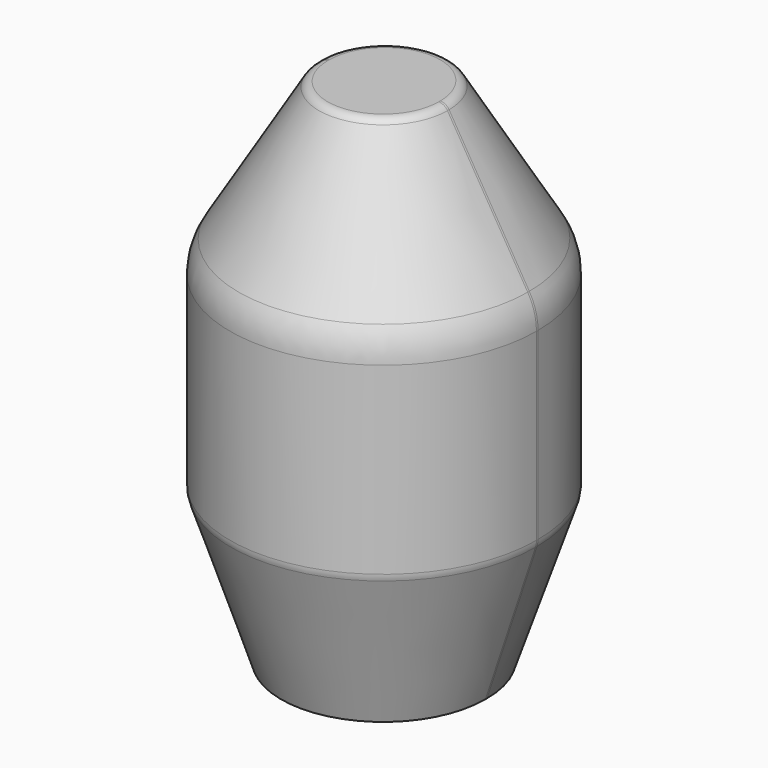
from build123d import *

# Parameters (mm, degrees)
F2_DEPTH = 0.1
F3_ANGLE = 180
F4_ANGLE = 180
F5_DEPTH = 0.1
F6_R     = 0.2427611579
F7_DEPTH = 1


with BuildPart() as f2:
    # F1 (on Front) → F2 (new body)
    with BuildSketch(Plane.XZ):
        with BuildLine():
            Line((0, 0.6), (0, 0))
            Line((0, 0), (5, 0))
            Line((5, 0), (7.4486832981, 7.3460498942))
            ThreePointArc((7.4486832981, 7.3460498942), (7.4870874576, 7.5020954172), (7.5, 7.6622776602))
            Line((7.5, 7.6622776602), (7.5, 16.6690481052))
            ThreePointArc((7.5, 16.6690481052), (7.3911447846, 17.4698488508), (7.0724787771, 18.2125353714))
            Line((7.0724787771, 18.2125353714), (3.1456512734, 24.7572478777))
            ThreePointArc((3.1456512734, 24.7572478777), (2.963254218, 24.9350999534), (2.7169048105, 25))
            Line((2.7169048105, 25), (0, 25))
            Line((0, 25), (0, 24.4))
            Line((0, 24.4), (2.6383143499, 24.4))
            ThreePointArc((2.6383143499, 24.4), (2.6777302551, 24.3896159925), (2.7069137839, 24.3611596604))
            Line((2.7069137839, 24.3611596604), (6.5751328802, 17.9141278333))
            ThreePointArc((6.5751328802, 17.9141278333), (6.8321901263, 17.3150273733), (6.92, 16.6690481052))
            Line((6.92, 16.6690481052), (6.92, 7.6622776602))
            ThreePointArc((6.92, 7.6622776602), (6.9145767322, 7.5950011181), (6.8984469852, 7.5294619984))
            Line((6.8984469852, 7.5294619984), (4.588626319, 0.6))
            Line((4.588626319, 0.6), (0, 0.6))
        make_face()
    extrude(amount=F2_DEPTH)

    # F2_face (on face) → F3 (revolve)
    with BuildSketch(Plane(origin=(5.1843610202, -0.1, 11.965116571), x_dir=(1, 0, 0), z_dir=(0, -1, 0))):
        with BuildLine():
            Line((-0.5957347012, -11.365116571), (-5.1843610202, -11.365116571))
            Line((-5.1843610202, -11.365116571), (-5.1843610202, -11.965116571))
            Line((-5.1843610202, -11.965116571), (-0.1843610202, -11.965116571))
            Line((-0.1843610202, -11.965116571), (2.2643222778, -4.6190666769))
            ThreePointArc((2.2643222778, -4.6190666769), (2.3027264374, -4.4630211539), (2.3156389798, -4.3028389109))
            Line((2.3156389798, -4.3028389109), (2.3156389798, 4.7039315341))
            ThreePointArc((2.3156389798, 4.7039315341), (2.2067837644, 5.5047322798), (1.8881177569, 6.2474188004))
            Line((1.8881177569, 6.2474188004), (-2.0387097468, 12.7921313067))
            ThreePointArc((-2.0387097468, 12.7921313067), (-2.2211068022, 12.9699833824), (-2.4674562097, 13.034883429))
            Line((-2.4674562097, 13.034883429), (-5.1843610202, 13.034883429))
            Line((-5.1843610202, 13.034883429), (-5.1843610202, 12.434883429))
            Line((-5.1843610202, 12.434883429), (-2.5460466703, 12.434883429))
            ThreePointArc((-2.5460466703, 12.434883429), (-2.5066307651, 12.4244994215), (-2.4774472363, 12.3960430894))
            Line((-2.4774472363, 12.3960430894), (1.39077186, 5.9490112623))
            ThreePointArc((1.39077186, 5.9490112623), (1.6478291061, 5.3499108023), (1.7356389798, 4.7039315341))
            Line((1.7356389798, 4.7039315341), (1.7356389798, -4.3028389109))
            ThreePointArc((1.7356389798, -4.3028389109), (1.730215712, -4.3701154529), (1.714085965, -4.4356545726))
            Line((1.714085965, -4.4356545726), (-0.5957347012, -11.365116571))
        make_face()
    revolve(axis=Axis((0, -0.1, 24.7), (0, 0, -1)), revolution_arc=F3_ANGLE)

    # F1 (on Front) → F4 (revolve)
    with BuildSketch(Plane.XZ):
        with BuildLine():
            Line((0, 0.6), (0, 0))
            Line((0, 0), (5, 0))
            Line((5, 0), (7.4486832981, 7.3460498942))
            ThreePointArc((7.4486832981, 7.3460498942), (7.4870874576, 7.5020954172), (7.5, 7.6622776602))
            Line((7.5, 7.6622776602), (7.5, 16.6690481052))
            ThreePointArc((7.5, 16.6690481052), (7.3911447846, 17.4698488508), (7.0724787771, 18.2125353714))
            Line((7.0724787771, 18.2125353714), (3.1456512734, 24.7572478777))
            ThreePointArc((3.1456512734, 24.7572478777), (2.963254218, 24.9350999534), (2.7169048105, 25))
            Line((2.7169048105, 25), (0, 25))
            Line((0, 25), (0, 24.4))
            Line((0, 24.4), (2.6383143499, 24.4))
            ThreePointArc((2.6383143499, 24.4), (2.6777302551, 24.3896159925), (2.7069137839, 24.3611596604))
            Line((2.7069137839, 24.3611596604), (6.5751328802, 17.9141278333))
            ThreePointArc((6.5751328802, 17.9141278333), (6.8321901263, 17.3150273733), (6.92, 16.6690481052))
            Line((6.92, 16.6690481052), (6.92, 7.6622776602))
            ThreePointArc((6.92, 7.6622776602), (6.9145767322, 7.5950011181), (6.8984469852, 7.5294619984))
            Line((6.8984469852, 7.5294619984), (4.588626319, 0.6))
            Line((4.588626319, 0.6), (0, 0.6))
        make_face()
    revolve(axis=Axis((0, 0, 24.7), (0, 0, 1)), revolution_arc=F4_ANGLE)

    # F5 (add): a face of the model
    f5_faces = [f2.faces().sort_by_distance(p)[0] for p in [
        (-0.2610076627, -0.1, 0.3),
    ]]
    extrude(f5_faces, amount=F5_DEPTH)

    # F6 (on face) → F7 (cut)
    with BuildSketch(Plane(origin=(0, 0, 0), x_dir=(1, 0, 0), z_dir=(0, 0, -1))):
        Circle(F6_R)
    extrude(amount=-F7_DEPTH, mode=Mode.SUBTRACT)


solid = f2.part
